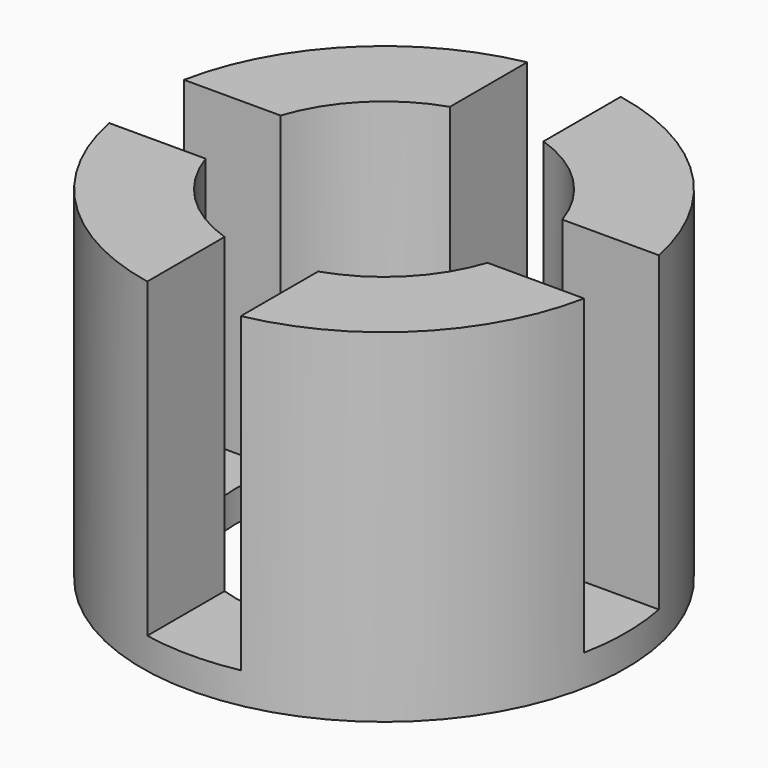
from build123d import *

# Parameters (mm, degrees)
F0_W     = 3
F0_H     = 11
F2_W     = 3
F2_H     = 5.261537
F2_W_2   = 5.261537
F2_H_2   = 3
F3_DEPTH = 10


with BuildPart() as f1:
    # F0 (on Front) → F1 (revolve)
    with BuildSketch(Plane.XZ):
        with Locations((-6.26, 28.5)):
            Rectangle(F0_W, F0_H)
    revolve(axis=Axis((0, 0, 29.352345), (0, 0, -1)))

    # F2 (on face) → F3 (cut)
    with BuildSketch(Plane.XY.offset(34)):
        with Locations((0, 6.592725)):
            Rectangle(F2_W, F2_H)
        with Locations((-6.592725, 0)):
            Rectangle(F2_W_2, F2_H_2)
        with Locations((0, -6.592725)):
            Rectangle(F2_W, F2_H)
        with Locations((6.592725, 0)):
            Rectangle(F2_W_2, F2_H_2)
    extrude(amount=-F3_DEPTH, mode=Mode.SUBTRACT)


solid = f1.part
